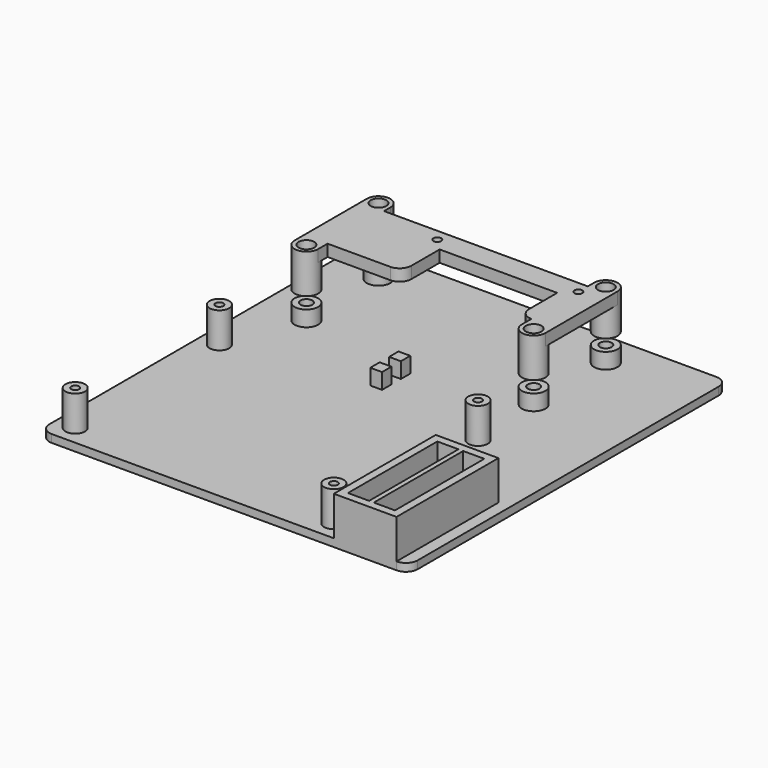
from build123d import *

# Parameters (mm, degrees)
PAD002_DEPTH      = 2
SKETCH003_R       = 3
PAD003_DEPTH      = 4
SKETCH017_R       = 2.5
SKETCH017_R_2     = 1
PAD014_DEPTH      = 9
SKETCH018_W       = 3
SKETCH018_H       = 3
PAD015_DEPTH      = 4
SKETCH021_W       = 16
SKETCH021_H       = 32.5
SKETCH021_W_2     = 5.4
SKETCH021_H_2     = 28.5
PAD018_DEPTH      = 10
SKETCH022_R       = 1.5
POCKET_DEPTH      = 2.001
POCKET_DEPTH_BACK = -10.001
SKETCH_R          = 2
SKETCH_R_2        = 1
PAD_DEPTH         = 3
SKETCH020_R       = 3
SKETCH020_R_2     = 2
PAD017_DEPTH      = 7


with BuildPart() as base:
    # Sketch002 → Pad002 (new body)
    with BuildSketch(Plane.XY):
        with BuildLine():
            Line((0, 99), (0, 3))
            ThreePointArc((0, 3), (0.87868, 0.87868), (3, 0))
            Line((3, 0), (91, 0))
            ThreePointArc((91, 0), (93.12132, 0.87868), (94, 3))
            Line((94, 3), (94, 99))
            ThreePointArc((94, 99), (93.12132, 101.12132), (91, 102))
            Line((91, 102), (3, 102))
            ThreePointArc((3, 102), (0.87868, 101.12132), (0, 99))
        make_face()
    extrude(amount=-PAD002_DEPTH)

    # Sketch003 → Pad003 (join)
    with BuildSketch(Plane.XY):
        with Locations((12, 93)):
            Circle(SKETCH003_R)
        with Locations((70, 93)):
            Circle(SKETCH003_R)
        with Locations((70, 70)):
            Circle(SKETCH003_R)
        with Locations((12, 70)):
            Circle(SKETCH003_R)
    extrude(amount=PAD003_DEPTH)

    # Sketch017 → Pad014 (join)
    with BuildSketch(Plane.XY):
        with Locations((5, 5)):
            Circle(SKETCH017_R)
        with Locations((5, 5)):
            Circle(SKETCH017_R_2, mode=Mode.SUBTRACT)
        with Locations((71, 5)):
            Circle(SKETCH017_R)
        with Locations((71, 5)):
            Circle(SKETCH017_R_2, mode=Mode.SUBTRACT)
        with Locations((71, 51)):
            Circle(SKETCH017_R)
        with Locations((71, 51)):
            Circle(SKETCH017_R_2, mode=Mode.SUBTRACT)
        with Locations((5, 51)):
            Circle(SKETCH017_R)
        with Locations((5, 51)):
            Circle(SKETCH017_R_2, mode=Mode.SUBTRACT)
    extrude(amount=PAD014_DEPTH)

    # Sketch018 → Pad015 (join)
    with BuildSketch(Plane.XY):
        with Locations((41, 63.5)):
            Rectangle(SKETCH018_W, SKETCH018_H)
        with Locations((41, 57.5)):
            Rectangle(SKETCH018_W, SKETCH018_H)
    extrude(amount=PAD015_DEPTH)

    # Sketch021 → Pad018 (join)
    with BuildSketch(Plane.XY):
        with Locations((83, 16.25)):
            Rectangle(SKETCH021_W, SKETCH021_H)
        with Locations((79.7, 16.25)):
            Rectangle(SKETCH021_W_2, SKETCH021_H_2, mode=Mode.SUBTRACT)
        with Locations((86.3, 16.25)):
            Rectangle(SKETCH021_W_2, SKETCH021_H_2, mode=Mode.SUBTRACT)
    extrude(amount=PAD018_DEPTH)

    # Sketch022 → Pocket (cut, two sides)
    with BuildSketch(Plane.XY) as pocket_sk:
        with Locations((12, 93)):
            Circle(SKETCH022_R)
        with Locations((70, 93)):
            Circle(SKETCH022_R)
        with Locations((12, 70)):
            Circle(SKETCH022_R)
        with Locations((70, 70)):
            Circle(SKETCH022_R)
    extrude(amount=-POCKET_DEPTH, mode=Mode.SUBTRACT)
    extrude(pocket_sk.sketch, amount=-POCKET_DEPTH_BACK, mode=Mode.SUBTRACT)


with BuildPart() as base_1:
    # Body002 placement: moved
    add(base.part.moved(Location((0, 0, -4))))


with BuildPart() as fan:
    # Sketch → Pad (new body)
    with BuildSketch(Plane.XY):
        with BuildLine():
            Line((0, 26), (0, 3))
            ThreePointArc((0, 3), (3, 0), (6, 3))
            Line((6, 6), (6, 3))
            Line((6, 6), (22, 6))
            ThreePointArc((22, 6), (24.12132, 6.87868), (25, 9))
            Line((25, 9), (25, 18))
            Line((25, 18), (55, 18))
            Line((55, 9), (55, 18))
            ThreePointArc((55, 9), (55.87868, 6.87868), (58, 6))
            Line((58, 3), (58, 6))
            ThreePointArc((58, 3), (61, 0), (64, 3))
            Line((64, 3), (64, 26))
            ThreePointArc((64, 26), (61, 29), (58, 26))
            Line((58, 24), (58, 26))
            Line((6, 24), (58, 24))
            Line((6, 26), (6, 24))
            ThreePointArc((6, 26), (3, 29), (0, 26))
        make_face()
        with Locations((3, 3)):
            Circle(SKETCH_R, mode=Mode.SUBTRACT)
        with Locations((3, 26)):
            Circle(SKETCH_R, mode=Mode.SUBTRACT)
        with Locations((61, 26)):
            Circle(SKETCH_R, mode=Mode.SUBTRACT)
        with Locations((61, 3)):
            Circle(SKETCH_R, mode=Mode.SUBTRACT)
        with Locations((22, 21)):
            Circle(SKETCH_R_2, mode=Mode.SUBTRACT)
        with Locations((58, 21)):
            Circle(SKETCH_R_2, mode=Mode.SUBTRACT)
    extrude(amount=PAD_DEPTH)

    # Sketch020 → Pad017 (join)
    with BuildSketch(Plane.XY):
        with Locations((3, 26)):
            Circle(SKETCH020_R)
        with Locations((3, 26)):
            Circle(SKETCH020_R_2, mode=Mode.SUBTRACT)
        with Locations((61, 26)):
            Circle(SKETCH020_R)
        with Locations((61, 26)):
            Circle(SKETCH020_R_2, mode=Mode.SUBTRACT)
        with Locations((3, 3)):
            Circle(SKETCH020_R)
        with Locations((3, 3)):
            Circle(SKETCH020_R_2, mode=Mode.SUBTRACT)
        with Locations((61, 3)):
            Circle(SKETCH020_R)
        with Locations((61, 3)):
            Circle(SKETCH020_R_2, mode=Mode.SUBTRACT)
    extrude(amount=-PAD017_DEPTH)


with BuildPart() as fan_1:
    # Body placement: moved
    add(fan.part.moved(Location((9, 67, 10))))


solid = Compound([base_1.part, fan_1.part])
